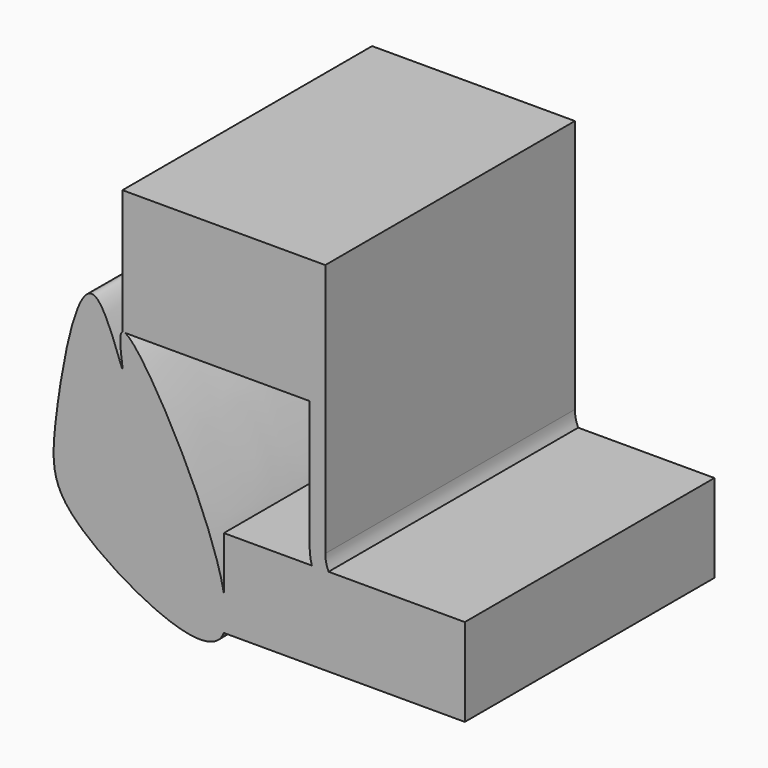
from build123d import *

# Parameters (mm, degrees)
F1_DEPTH = 63.5


with BuildPart() as f1:
    # F0 (on Front) → F1 (new body, symmetric)
    with BuildSketch(Plane.XZ):
        with BuildLine():
            Line((41.275, -25.4), (41.275, 25.4))
            Line((41.275, 25.4), (-41.275, 25.4))
            Line((-41.275, 25.4), (-41.275, -25.4))
            add(Edge.make_bspline(
                [(-41.275, -25.4), (-41.0251631495, -25.2682209146), (-40.7143381803, -25.2713703549), (-40.3484325882, -25.4)],
                knots=[0, 0, 0, 0, 0.0103639822, 0.0103639822, 0.0103639822, 0.0103639822], degree=3))
            Line((-40.3484325882, -25.4), (34.925, -25.4))
            Line((34.925, -25.4), (41.275, -25.4))
        make_face()
        with BuildLine():
            Line((41.275, -77.9587051659), (41.275, -25.4))
            Line((41.275, -25.4), (34.925, -25.4))
            Line((34.925, -25.4), (34.925, -77.9587051659))
            ThreePointArc((34.925, -77.9587051659), (35.1530806437, -81.0389325154), (35.8323476668, -84.0519737723))
            Line((35.8323476668, -84.0519737723), (42.6109915941, -84.0519737723))
            ThreePointArc((42.6109915941, -84.0519737723), (41.6129183385, -81.0777112516), (41.275, -77.9587051659))
        make_face()
        with BuildLine():
            add(Edge.make_bspline(
                [(-41.275, -25.4), (-41.0251631495, -25.2682209146), (-40.7143381803, -25.2713703549), (-40.3484325882, -25.4)],
                knots=[0, 0, 0, 0, 0.0103639822, 0.0103639822, 0.0103639822, 0.0103639822], degree=3))
            Line((-41.275, -25.4), (-40.3484325882, -25.4))
        make_face()
        with BuildLine():
            Line((-40.3484325882, -25.4), (-41.275, -25.4))
            add(Edge.make_bspline(
                [(0, -119.8317275898), (-5.8774254103, -134.8138000546), (-69.2546435796, -100.7846524204), (-71.0942813509, -73.6224732662), (-55.8768987696, 10.7005844338), (-37.4986467676, -54.0770153592), (-43.467744841, -26.5565864246), (-41.275, -25.4)],
                knots=[0.2543174283, 0.2543174283, 0.2543174283, 0.2543174283, 0.4481918638, 0.6027655534, 0.7832677282, 0.9090383647, 1, 1, 1, 1], degree=3))
            Line((0, -119.8317275898), (0, -105.5528684028))
            add(Edge.make_bspline(
                [(-40.3484325882, -25.4), (-33.2519579826, -27.8946790369), (-5.4375679655, -77.5872315187), (0, -105.5528684028)],
                knots=[0.0103639822, 0.0103639822, 0.0103639822, 0.0103639822, 0.2113659292, 0.2113659292, 0.2113659292, 0.2113659292], degree=3))
        make_face()
        with BuildLine():
            add(Edge.make_bspline(
                [(0, -105.5528684028), (1.1619374778, -111.5287608959), (1.3021016993, -116.5125562428), (0, -119.8317275898)],
                knots=[0.2113659292, 0.2113659292, 0.2113659292, 0.2113659292, 0.2543174283, 0.2543174283, 0.2543174283, 0.2543174283], degree=3))
            Line((0, -119.8317275898), (98.0712024719, -119.8317275898))
            Line((98.0712024719, -119.8317275898), (98.0712024719, -84.0519737723))
            Line((98.0712024719, -84.0519737723), (75.8441797926, -84.0519737723))
            ThreePointArc((75.8441797926, -84.0519737723), (55.8382637297, -98.8719688955), (35.8323476668, -84.0519737723))
            Line((35.8323476668, -84.0519737723), (0, -84.0519737723))
            Line((0, -84.0519737723), (0, -105.5528684028))
        make_face()
        with BuildLine():
            Line((0, -105.5528684028), (0, -119.8317275898))
            add(Edge.make_bspline(
                [(0, -105.5528684028), (1.1619374778, -111.5287608959), (1.3021016993, -116.5125562428), (0, -119.8317275898)],
                knots=[0.2113659292, 0.2113659292, 0.2113659292, 0.2113659292, 0.2543174283, 0.2543174283, 0.2543174283, 0.2543174283], degree=3))
        make_face()
        with BuildLine():
            ThreePointArc((69.0655358653, -84.0519737723), (55.8382637297, -92.5219688955), (42.6109915941, -84.0519737723))
            Line((42.6109915941, -84.0519737723), (35.8323476668, -84.0519737723))
            ThreePointArc((35.8323476668, -84.0519737723), (55.8382637297, -98.8719688955), (75.8441797926, -84.0519737723))
            Line((75.8441797926, -84.0519737723), (69.0655358653, -84.0519737723))
        make_face()
        with BuildLine():
            Line((69.0655358653, -84.0519737723), (42.6109915941, -84.0519737723))
            ThreePointArc((42.6109915941, -84.0519737723), (55.8382637297, -92.5219688955), (69.0655358653, -84.0519737723))
        make_face()
    extrude(amount=F1_DEPTH, both=True)


solid = f1.part
